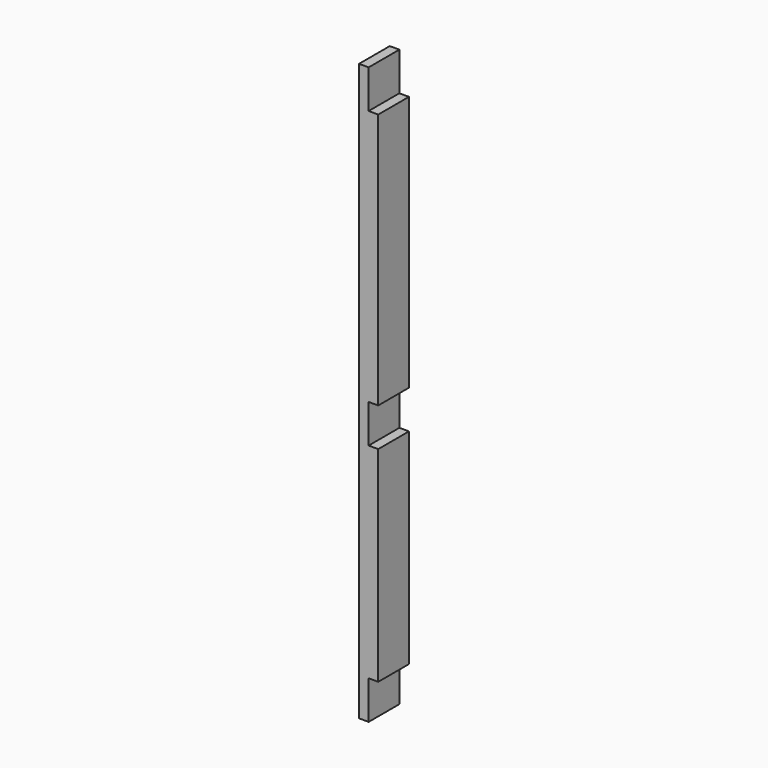
from build123d import *

# Parameters (mm, degrees)
F0_W     = 38.1
F0_H     = 571.5
F1_DEPTH = 19.05
F2_W     = 38.1
F2_H     = 38.1
F3_DEPTH = 9.525


with BuildPart() as f1:
    # F0 (on Right) → F1 (new body)
    with BuildSketch(Plane.YZ):
        with Locations((0, 207.162097)):
            Rectangle(F0_W, F0_H)
    extrude(amount=F1_DEPTH)

    # F2 (on face) → F3 (cut)
    with BuildSketch(Plane.YZ.offset(19.05)):
        with Locations((0, 473.862097)):
            Rectangle(F2_W, F2_H)
        with Locations((0, 181.762097)):
            Rectangle(F2_W, F2_H)
        with Locations((0, -59.537903)):
            Rectangle(F2_W, F2_H)
    extrude(amount=-F3_DEPTH, mode=Mode.SUBTRACT)


solid = f1.part
